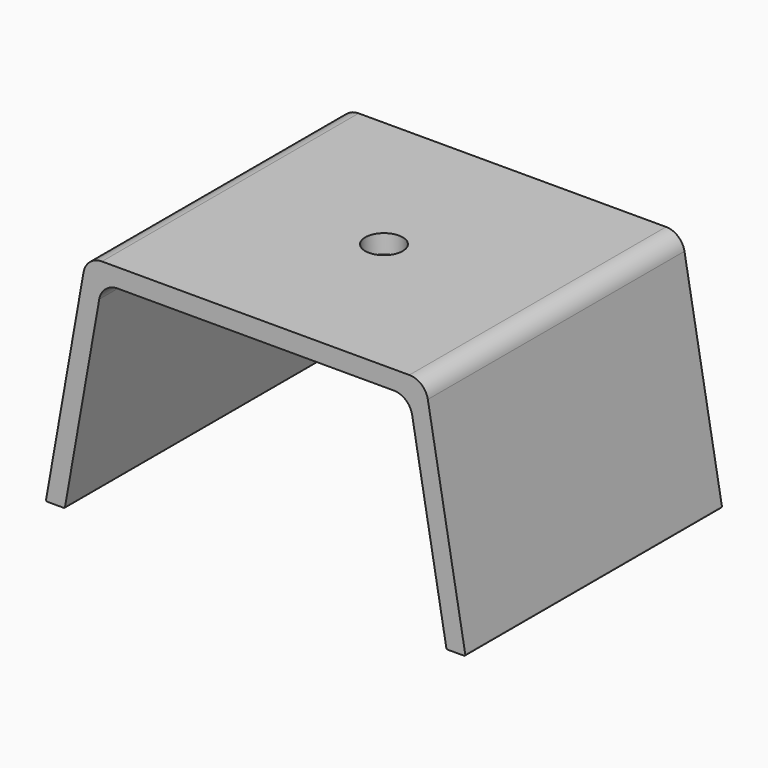
from build123d import *

# Parameters (mm, degrees)
F1_DEPTH = 120
F2_R     = 7
F3_DEPTH = 25


with BuildPart() as f1:
    # F0 (on Front) → F1 (new body)
    with BuildSketch(Plane.XZ):
        with BuildLine():
            ThreePointArc((-71.811404, 0), (-71.49001, 0.116978), (-71.319, 0.413176))
            Line((-71.319, 0.413176), (-58.519957, 73.000157))
            ThreePointArc((-58.519957, 73.000157), (-56.125816, 77.146931), (-51.626303, 78.78462))
            Line((-51.626303, 78.78462), (51.626303, 78.78462))
            ThreePointArc((51.626303, 78.78462), (56.125816, 77.146931), (58.519957, 73.000157))
            Line((58.519957, 73.000157), (71.319, 0.413176))
            ThreePointArc((71.319, 0.413176), (71.49001, 0.116978), (71.811404, 0))
            Line((71.811404, 0), (77.903964, 0))
            ThreePointArc((77.903964, 0), (78.286986, 0.178606), (78.396368, 0.586824))
            Line((78.396368, 0.586824), (64.393654, 80.000157))
            ThreePointArc((64.393654, 80.000157), (61.999513, 84.146931), (57.5, 85.78462))
            Line((57.5, 85.78462), (-57.5, 85.78462))
            ThreePointArc((-57.5, 85.78462), (-61.999513, 84.146931), (-64.393654, 80.000157))
            Line((-64.393654, 80.000157), (-78.396368, 0.586824))
            ThreePointArc((-78.396368, 0.586824), (-78.286986, 0.178606), (-77.903964, 0))
            Line((-77.903964, 0), (-71.811404, 0))
        make_face()
    extrude(amount=F1_DEPTH)

    # F2 (on face) → F3 (cut)
    with BuildSketch(Plane.XY.offset(85.78462)):
        with Locations((0, -60)):
            Circle(F2_R)
    extrude(amount=-F3_DEPTH, mode=Mode.SUBTRACT)


solid = f1.part
